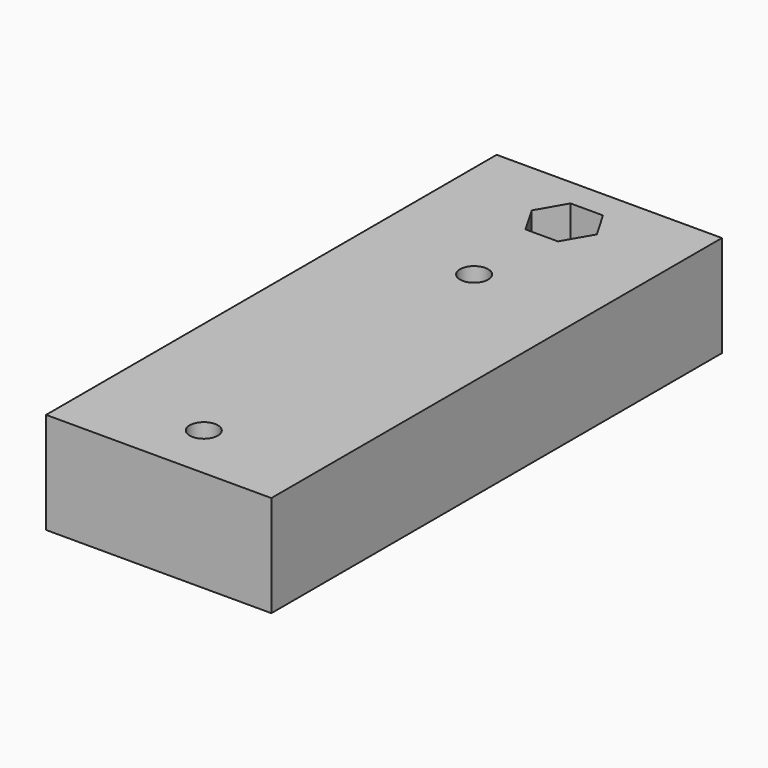
from build123d import *

# Parameters (mm, degrees)
SKETCH062_W          = 40
SKETCH062_H          = 100
PAD005_DEPTH         = 18
SKETCH063_R          = 3
SKETCH063_R_2        = 2.5
POCKET035_DEPTH      = 0.001
POCKET035_DEPTH_BACK = 18.001
POCKET041_DEPTH      = 7


with BuildPart() as part:
    # Sketch062 → Pad005 (new body)
    with BuildSketch(Plane.XY):
        Rectangle(SKETCH062_W, SKETCH062_H)
    extrude(amount=PAD005_DEPTH)

    # Sketch063 → Pocket035 (cut, two sides)
    with BuildSketch(Plane.XY) as pocket035_sk:
        with Locations((0, 40)):
            Circle(SKETCH063_R)
        with Locations((0, 20)):
            Circle(SKETCH063_R_2)
        with Locations((0, -40)):
            Circle(SKETCH063_R_2)
    extrude(amount=-POCKET035_DEPTH, mode=Mode.SUBTRACT)
    extrude(pocket035_sk.sketch, amount=POCKET035_DEPTH_BACK, mode=Mode.SUBTRACT)

    # Sketch092 → Pocket041 (cut)
    with BuildSketch(Plane(origin=(0, 40, 18), x_dir=(1, 0, 0), z_dir=(0, 0, 1))):
        Polygon((5.773503, 0), (2.886751, 5), (-2.886751, 5), (-5.773503, 0), (-2.886751, -5), (2.886751, -5), align=None)
    extrude(amount=-POCKET041_DEPTH, mode=Mode.SUBTRACT)


with BuildPart() as part_1:
    # Clone027 placement: moved
    add(part.part.moved(Location((-20, 50, 0))))


solid = part_1.part
